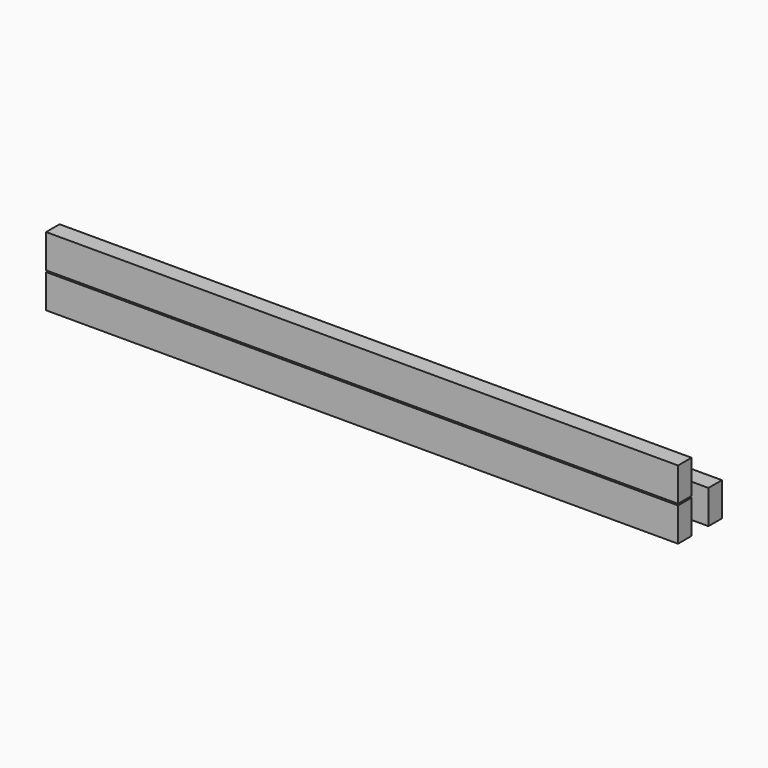
from build123d import *

# Parameters (mm, degrees)
F0_W     = 50.8
F0_H     = 101.6
F1_DEPTH = 1905


with BuildPart() as f1:
    # F0 (on Right) → F1 (new body)
    with BuildSketch(Plane.YZ):
        Rectangle(F0_W, F0_H)
    extrude(amount=-F1_DEPTH)


with BuildPart() as f2_1:
    # F2: copy of F1
    add(f1.part.moved(Location((0, 0, 106.172))))


with BuildPart() as f3_1:
    # F3: copy of F1
    add(f1.part.moved(Location((0, 114.554, 0))))


solid = Compound([f1.part, f2_1.part, f3_1.part])
